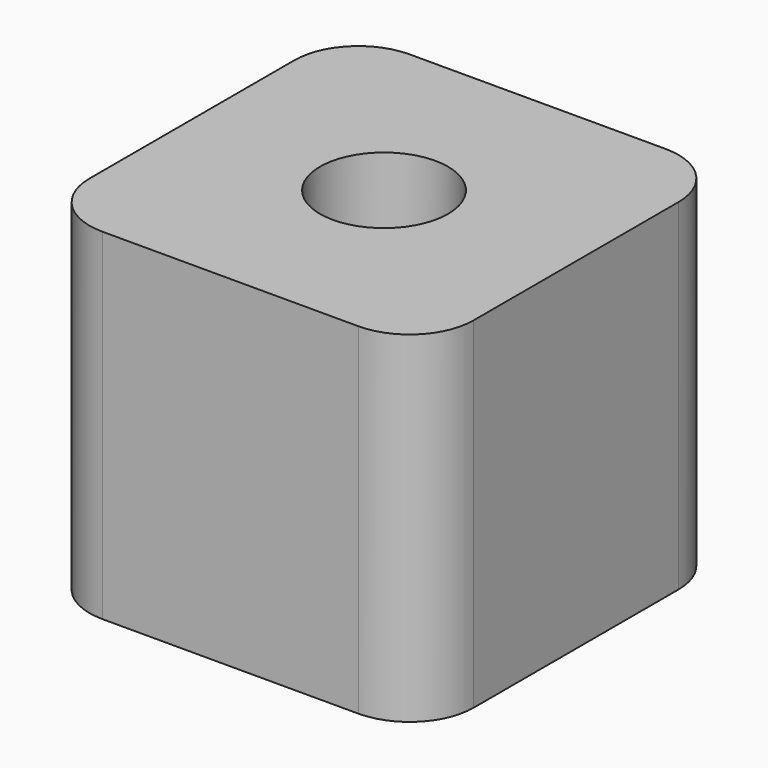
from build123d import *

# Parameters (mm, degrees)
F0_W     = 6
F0_H     = 6
F0_W_2   = 3
F0_H_2   = 3
F0_R     = 1
F2_DEPTH = 5.328427
F3_DEPTH = 1.5
F4_R     = 1


with BuildPart() as f2:
    # F0 (on Top) → F2 (new body, through all)
    with BuildSketch(Plane.XY):
        Rectangle(F0_W, F0_H)
        Rectangle(F0_W_2, F0_H_2, mode=Mode.SUBTRACT)
        Rectangle(F0_W_2, F0_H_2)
        Circle(F0_R, mode=Mode.SUBTRACT)
    extrude(amount=F2_DEPTH)

    # F0 (on Top) → F3 (cut)
    with BuildSketch(Plane.XY):
        Rectangle(F0_W_2, F0_H_2)
        Circle(F0_R, mode=Mode.SUBTRACT)
    extrude(amount=F3_DEPTH, mode=Mode.SUBTRACT)

    # F4
    f4_edges = [f2.edges().sort_by_distance(p)[0] for p in [
        (-3, -3, 2.664214),
        (3, -3, 2.664214),
        (3, 3, 2.664214),
        (-3, 3, 2.664214),
    ]]
    fillet(f4_edges, radius=F4_R)


solid = f2.part
